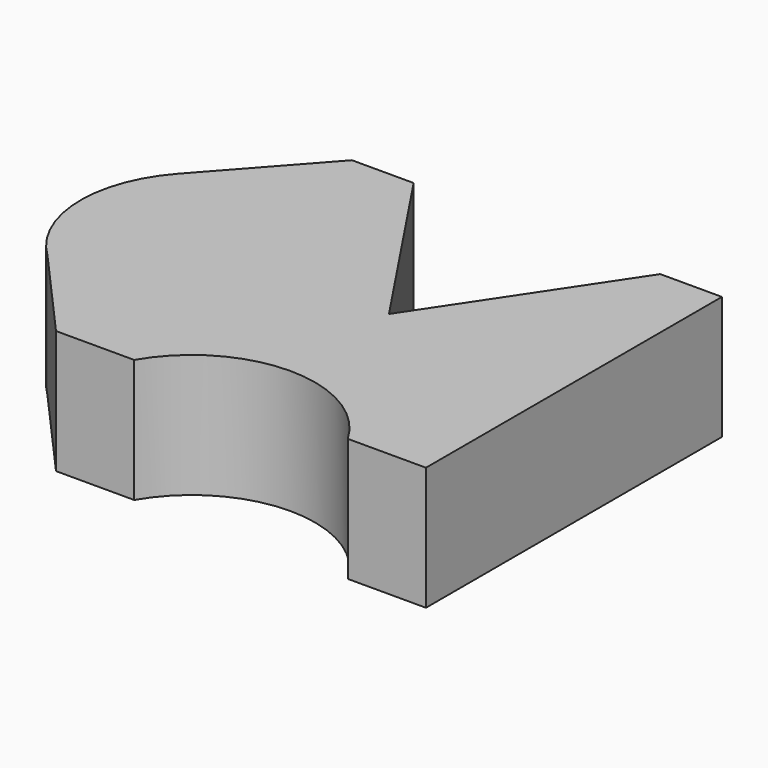
from build123d import *

# Parameters (mm, degrees)
F1_DEPTH = 20


with BuildPart() as f1:
    # F0 (on Top) → F1 (new body)
    with BuildSketch(Plane.XY):
        with BuildLine():
            ThreePointArc((-44.90712, 13.333333), (-22.863558, 18.683447), (-10, 0))
            ThreePointArc((-10, 0), (-22.132295, -18.387475), (-43.809922, -14.466722))
            Line((-43.809922, -14.466722), (-30, -30))
            Line((-30, -30), (-17.320508, -30))
            ThreePointArc((-17.320508, -30), (0, -20), (17.320508, -30))
            Line((17.320508, -30), (30, -30))
            Line((30, -30), (30, 30))
            Line((30, 30), (20, 30))
            Line((20, 30), (0, 0))
            Line((0, 0), (-20, 30))
            Line((-20, 30), (-30, 30))
            Line((-30, 30), (-44.90712, 13.333333))
        make_face()
        with BuildLine():
            ThreePointArc((-43.809922, -14.466722), (-22.132295, -18.387475), (-10, 0))
            ThreePointArc((-10, 0), (-22.863558, 18.683447), (-44.90712, 13.333333))
            ThreePointArc((-44.90712, 13.333333), (-49.984441, -0.788735), (-43.809922, -14.466722))
        make_face()
    extrude(amount=F1_DEPTH)


solid = f1.part
